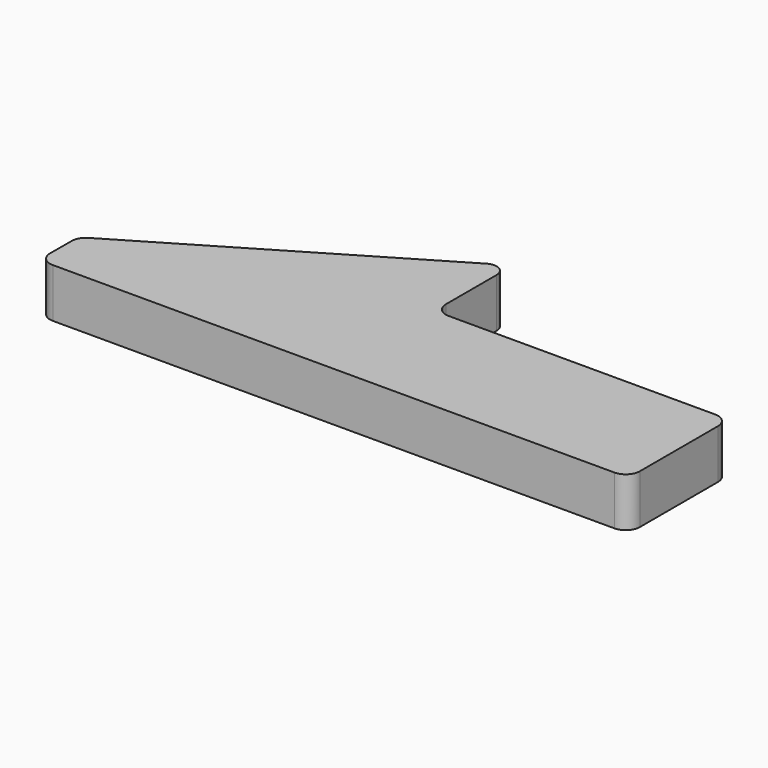
from build123d import *

# Parameters (mm, degrees)
F1_DEPTH = 6.35
F2_R     = 1.822303


with BuildPart() as f1:
    # F0 (on Top) → F1 (new body)
    with BuildSketch(Plane.XY):
        with BuildLine():
            Line((35.833564, 27.590343), (0.035224, 6.349902))
            Line((0.035224, 6.349902), (0, 0))
            Line((0, 0), (76.2, 0))
            Line((76.2, 0), (76.2, 16.256))
            Line((76.2, 16.256), (38.135224, 16.256))
            Line((38.135224, 16.256), (38.135224, 26.279686))
            ThreePointArc((38.135224, 26.279686), (37.365353, 27.604021), (35.833564, 27.590343))
        make_face()
    extrude(amount=F1_DEPTH)

    # F2
    f2_edges = [f1.edges().sort_by_distance(p)[0] for p in [
        (0.035224, 6.349902, 3.175),
        (76.2, 0, 3.175),
        (76.2, 16.256, 3.175),
        (38.135224, 16.256, 3.175),
        (0, 0, 3.175),
    ]]
    fillet(f2_edges, radius=F2_R)


solid = f1.part
